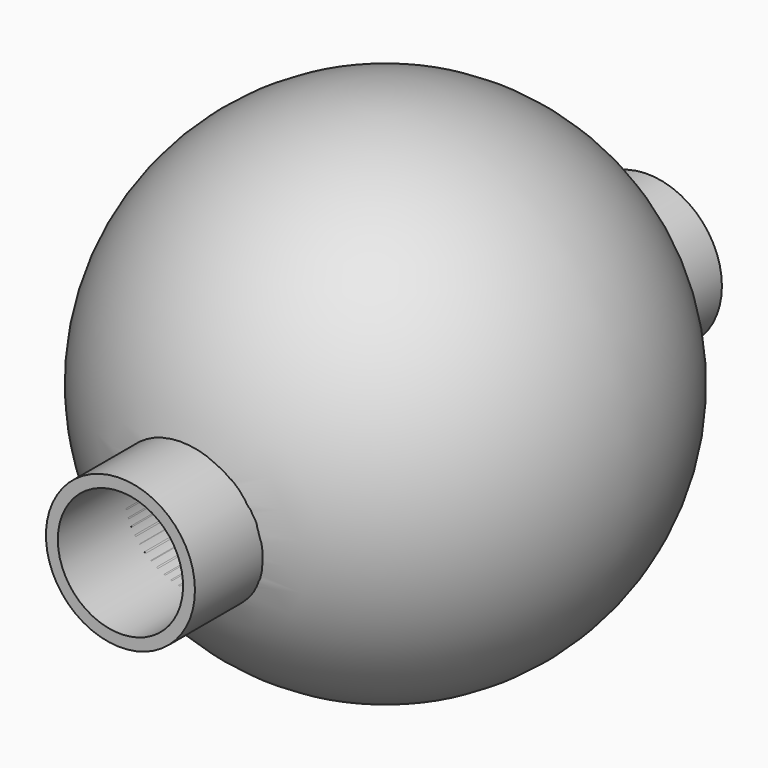
from build123d import *

# Parameters (mm, degrees)
F2_R     = 7.5552137931
F3_DEPTH = 66.802
F6_T     = -2.54
F7_D     = 12.7
F7_2_D   = 12.7


with BuildPart() as f1:
    # F0 (on Front) → F1 (revolve)
    with BuildSketch(Plane.XZ):
        with BuildLine():
            Line((0, 50.8), (0, 0))
            ThreePointArc((0, 0), (25.4, 25.4), (0, 50.8))
        make_face()
    revolve(axis=Axis((0, 0, 25.4), (0, 0, 1)))

    # F7 (through all)
    with Locations(Plane.XZ.offset(32.766)):
        with Locations((-0.6537291788, 22.5509924138)):
            Hole(F7_D / 2)


with BuildPart() as f3:
    # F2 (on Front) → F3 (new body)
    with BuildSketch(Plane.XZ):
        with Locations((16.3642708212, -18.0890075862)):
            Circle(F2_R)
    extrude(amount=F3_DEPTH)


with BuildPart() as f3_1:
    # F4: moved
    add(f3.part.moved(Location((-17.018, 34.036, 40.64))))

    # F6
    f6_openings = [f3_1.faces().sort_by_distance(p)[0] for p in [
        (-0.653729, -32.766, 22.550992),
        (-0.653729, 34.036, 22.550992),
    ]]
    offset(amount=F6_T, openings=f6_openings)

    # F7#2 (through all)
    with Locations(Plane.XZ.offset(32.766)):
        with Locations((-0.6537291788, 22.5509924138)):
            Hole(F7_2_D / 2)


solid = Compound([f1.part, f3_1.part])
